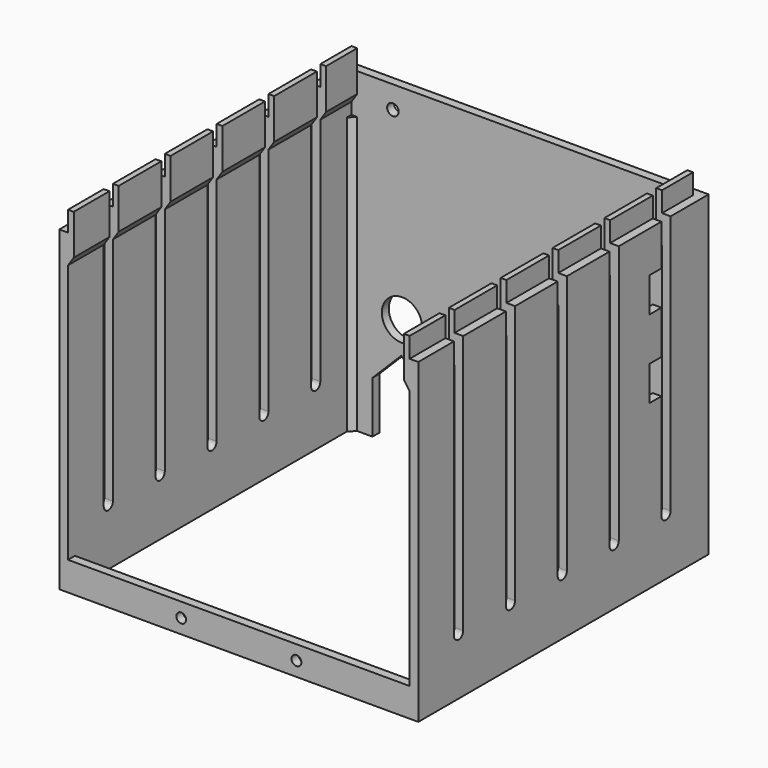
from build123d import *

# Parameters (mm, degrees)
PAD_DEPTH           = 110
PAD001_DEPTH        = 96
SKETCH003_W         = 118.6
SKETCH003_H         = 10
PAD002_DEPTH        = 3
PAD003_DEPTH        = 123
POCKET001_DEPTH     = 124.601
LINEARPATTERN_COUNT = 5
LINEARPATTERN_PITCH = 22.5
SKETCH012_W         = 6
SKETCH012_H         = 12
POCKET_DEPTH        = 5
SKETCH013_R         = 1.7
POCKET004_DEPTH     = 126.001
SKETCH014_R         = 7
SKETCH014_R_2       = 2
POCKET005_DEPTH     = 5


with BuildPart() as part:
    # Sketch → Pad (new body)
    with BuildSketch(Plane.XY):
        Polygon((62.3, 64.5), (-62.3, 64.5), (-62.3, -61.5), (-59.3, -61.5), (-59.3, 61.5), (59.3, 61.5), (59.3, -61.5), (62.3, -61.5), align=None)
    extrude(amount=PAD_DEPTH)

    # Sketch001 → Pad001 (join)
    with BuildSketch(Plane.XY):
        Polygon((-59.3, 59.5), (-57.3, 61.5), (-59.3, 61.5), align=None)
    pad001 = extrude(amount=PAD001_DEPTH)

    # Mirrored: Pad001 across YZ
    add(pad001.mirror(Plane.YZ))

    # Sketch003 (on DatumPlane) → Pad002 (join)
    with BuildSketch(Plane.XZ.offset(61.5)):
        with Locations((0, 5)):
            Rectangle(SKETCH003_W, SKETCH003_H)
    extrude(amount=-PAD002_DEPTH)

    # Sketch004 (on DatumPlane) → Pad003 (join)
    with BuildSketch(Plane.XZ.offset(61.5)):
        Polygon((-57.3, 117), (-59.3, 117), (-59.3, 100), (-57.3, 103), align=None)
        Polygon((57.3, 103), (57.3, 117), (59.3, 117), (59.3, 100), align=None)
    extrude(amount=-PAD003_DEPTH)

    # Sketch009 (on DatumPlane) → Pocket001 (cut, through all)
    with BuildSketch(Plane.YZ.offset(62.3)):
        with BuildLine():
            Line((-46, 20), (-46, 243))
            ThreePointArc((-42, 243), (-44, 245), (-46, 243))
            Line((-42, 243), (-42, 20))
            ThreePointArc((-46, 20), (-44, 18), (-42, 20))
        make_face()
    pocket001 = extrude(amount=-POCKET001_DEPTH, mode=Mode.SUBTRACT)

    # LinearPattern: Pocket001 ×5
    with Locations(*[(0, i * LINEARPATTERN_PITCH, 0) for i in range(1, LINEARPATTERN_COUNT)]):
        add(pocket001, mode=Mode.SUBTRACT)

    # Sketch012 (on DatumPlane) → Pocket (cut)
    with BuildSketch(Plane.YZ.offset(62.3)):
        with Locations((41.830656, 89.723986)):
            Rectangle(SKETCH012_W, SKETCH012_H)
        with Locations((41.830656, 62.651357)):
            Rectangle(SKETCH012_W, SKETCH012_H)
    extrude(amount=-POCKET_DEPTH, mode=Mode.SUBTRACT)

    # Sketch013 (on DatumPlane) → Pocket004 (cut, through all)
    with BuildSketch(Plane.XZ.offset(-64.5)):
        with Locations((20, 5)):
            Circle(SKETCH013_R)
        with Locations((-20, 5)):
            Circle(SKETCH013_R)
    extrude(amount=POCKET004_DEPTH, mode=Mode.SUBTRACT)

    # Sketch014 (on DatumPlane) → Pocket005 (cut)
    with BuildSketch(Plane.XZ.offset(-64.5)):
        with Locations((-16.307726, 38.976202)):
            Circle(SKETCH014_R)
        with Locations((-41.75, 38.976202)):
            Circle(SKETCH014_R)
        with Locations((-44.911871, 102.251883)):
            Circle(SKETCH014_R_2)
        Polygon((32, 0), (52, 0), (52, 18), (42, 28), (32, 18), align=None)
        Polygon((-52, 0), (-32, 0), (-32, 18), (-42, 28), (-52, 18), align=None)
    extrude(amount=POCKET005_DEPTH, mode=Mode.SUBTRACT)


with BuildPart() as part_1:
    # Body placement: moved
    add(part.part.moved(Location((1.4, 0, 0))))


solid = part_1.part
